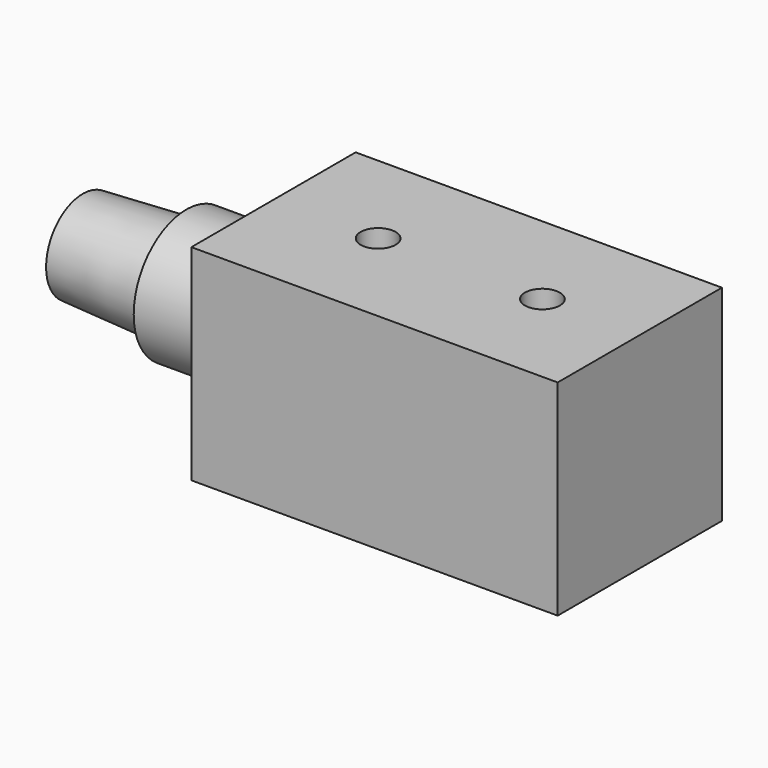
from build123d import *

# Parameters (mm, degrees)
F0_W     = 56.642
F0_H     = 31.75
F1_DEPTH = 31.75
F2_R     = 10.16
F3_DEPTH = 13.4874
F4_R     = 7.9375
F5_DEPTH = 16.002
F5_TAPER = 3
F7_D     = 5.4102
F7_DEPTH = 27.94
F7_TIP   = 1.6253880605


with BuildPart() as f1:
    # F0 (on Top) → F1 (new body)
    with BuildSketch(Plane.XY):
        with Locations((-28.321, -15.875)):
            Rectangle(F0_W, F0_H)
    extrude(amount=-F1_DEPTH)

    # F2 (on face) → F3 (join)
    with BuildSketch(Plane(origin=(-56.642, 0, 0), x_dir=(0, -1, 0), z_dir=(-1, 0, 0))):
        with Locations((15.875, -15.875)):
            Circle(F2_R)
    extrude(amount=F3_DEPTH)

    # F4 (on face) → F5 (join)
    with BuildSketch(Plane(origin=(-70.1294, 0, 0), x_dir=(0, -1, 0), z_dir=(-1, 0, 0))):
        with Locations((15.875, -15.875)):
            Circle(F4_R)
    extrude(amount=F5_DEPTH, taper=F5_TAPER)

    # F7
    with Locations(Plane.XY):
        with Locations((-15.0622, -15.875), (-40.4622, -15.875)):
            Hole(F7_D / 2, depth=F7_DEPTH)
            with Locations((0, 0, -(F7_DEPTH + F7_TIP / 2))):  # 118° drill point
                Cone(0, F7_D / 2, F7_TIP, mode=Mode.SUBTRACT)


solid = f1.part
